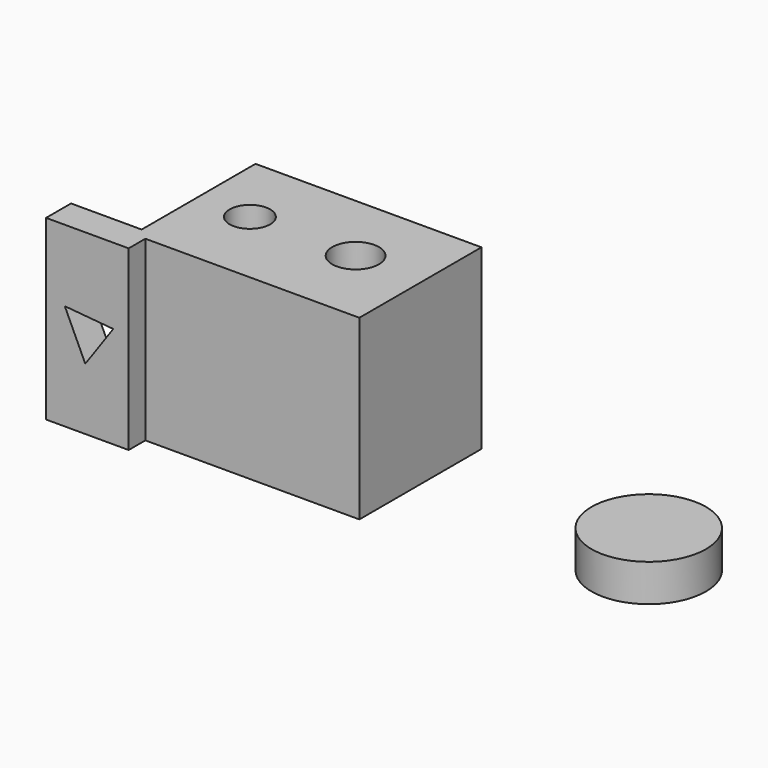
from build123d import *

# Parameters (mm, degrees)
F0_R     = 8.702175
F0_R_2   = 10.027362
F1_DEPTH = 76.2
F3_DEPTH = 49.53
F4_R     = 10.690122
F5_DEPTH = 25.4
F6_R     = 24.565439
F7_DEPTH = 16.002


with BuildPart() as f1:
    # F0 (on Top) → F1 (new body)
    with BuildSketch(Plane.XY):
        Polygon((25.339812, 40.98073), (-71.630187, 40.98073), (-71.630187, -20.08239), (-101.940535, -20.08239), (-101.940535, -33.478312), (-66.497155, -33.478312), (-66.497155, -24.517545), (25.339812, -24.517545), align=None)
        with Locations((-49.051825, 9.757455)):
            Circle(F0_R, mode=Mode.SUBTRACT)
        with Locations((-3.800518, 9.881772)):
            Circle(F0_R_2, mode=Mode.SUBTRACT)
    extrude(amount=F1_DEPTH)

    # F2 (on face) → F3 (cut)
    with BuildSketch(Plane.XZ.offset(33.478312)):
        Polygon((-85.117862, 26.518994), (-73.111358, 43.602549), (-93.909402, 45.45871), align=None)
    extrude(amount=-F3_DEPTH, mode=Mode.SUBTRACT)

    # F4 (on face) → F5 (cut)
    with BuildSketch(Plane(origin=(0, 40.98073, 0), x_dir=(-1, 0, 0), z_dir=(0, 1, 0))):
        with Locations((21.355344, 41.652258)):
            Circle(F4_R)
    extrude(amount=-F5_DEPTH, mode=Mode.SUBTRACT)


with BuildPart() as f7:
    # F6 (on Top) → F7 (new body)
    with BuildSketch(Plane.XY):
        with Locations((124.144077, 7.217272)):
            Circle(F6_R)
    extrude(amount=F7_DEPTH)


solid = Compound([f1.part, f7.part])
